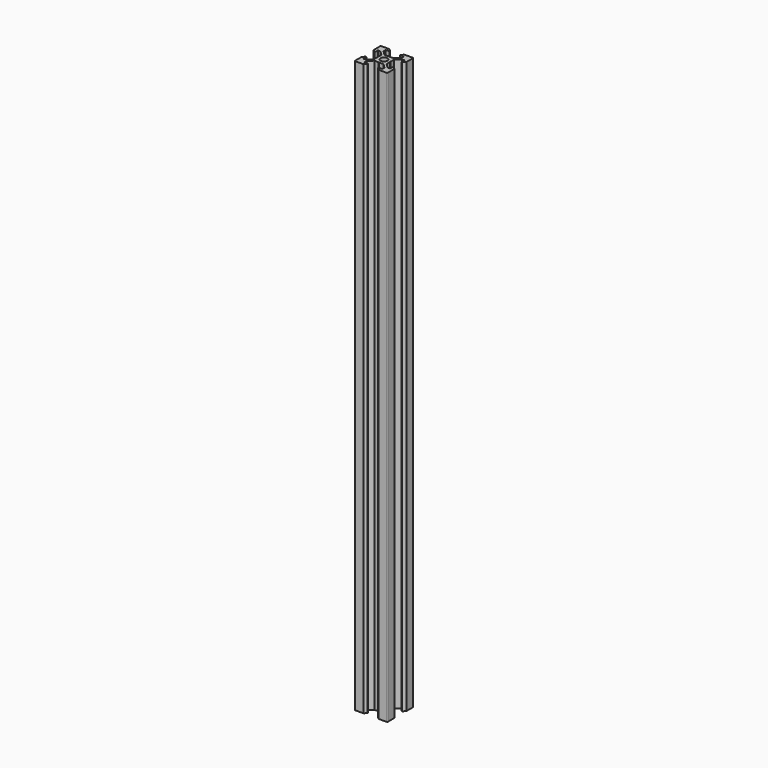
from build123d import *

# Parameters (mm, degrees)
F0_R     = 2.1
F1_DEPTH = 300
F2_DEPTH = 293
F3_DEPTH = 274
F4_DEPTH = 350


with BuildPart() as f1:
    # F0 (on Top) → F1 (new body)
    with BuildSketch(Plane.XY):
        with BuildLine():
            Line((-4.592274608, 10.0000011548), (-9.512274608, 10.0000011548))
            ThreePointArc((-9.512274608, 10.0000011548), (-9.8658279986, 9.8535545454), (-10.012274608, 9.5000011548))
            Line((-10.012274608, 9.5000011548), (-10.012274608, 4.5800011548))
            Line((-10.012274608, 4.5800011548), (-8.557274608, 3.1250011548))
            Line((-8.557274608, 3.1250011548), (-8.212274608, 3.1250011548))
            Line((-8.212274608, 3.1250011548), (-8.212274608, 5.5000011548))
            Line((-8.212274608, 5.5000011548), (-6.5729347798, 5.5000011548))
            Line((-6.5729347798, 5.5000011548), (-3.912274608, 2.8393409831))
            Line((-3.912274608, 2.8393409831), (-3.912274608, 0.2100011548))
            Line((-3.912274608, 0.2100011548), (-3.702274608, 1.1548e-06))
            Line((-3.702274608, 1.1548e-06), (-3.912274608, -0.2099988452))
            Line((-3.912274608, -0.2099988452), (-3.912274608, -2.8393386734))
            Line((-3.912274608, -2.8393386734), (-6.5729347798, -5.4999988452))
            Line((-6.5729347798, -5.4999988452), (-8.212274608, -5.4999988452))
            Line((-8.212274608, -5.4999988452), (-8.212274608, -3.1249988452))
            Line((-8.212274608, -3.1249988452), (-8.557274608, -3.1249988452))
            Line((-8.557274608, -3.1249988452), (-10.012274608, -4.5799988452))
            Line((-10.012274608, -4.5799988452), (-10.012274608, -9.4999988452))
            ThreePointArc((-10.012274608, -9.4999988452), (-9.8658279986, -9.8535522358), (-9.512274608, -9.9999988452))
            Line((-9.512274608, -9.9999988452), (-4.592274608, -9.9999988452))
            Line((-4.592274608, -9.9999988452), (-3.137274608, -8.5449988452))
            Line((-3.137274608, -8.5449988452), (-3.137274608, -8.1999988452))
            Line((-3.137274608, -8.1999988452), (-5.512274608, -8.1999988452))
            Line((-5.512274608, -8.1999988452), (-5.512274608, -6.5606590169))
            Line((-5.512274608, -6.5606590169), (-2.8516144362, -3.8999988452))
            Line((-2.8516144362, -3.8999988452), (-0.222274608, -3.8999988452))
            Line((-0.222274608, -3.8999988452), (-0.012274608, -3.6899988452))
            Line((-0.012274608, -3.6899988452), (0.197725392, -3.8999988452))
            Line((0.197725392, -3.8999988452), (2.8270652202, -3.8999988452))
            Line((2.8270652202, -3.8999988452), (5.487725392, -6.5606590169))
            Line((5.487725392, -6.5606590169), (5.487725392, -8.1999988452))
            Line((5.487725392, -8.1999988452), (3.112725392, -8.1999988452))
            Line((3.112725392, -8.1999988452), (3.112725392, -8.5449988452))
            Line((3.112725392, -8.5449988452), (4.567725392, -9.9999988452))
            Line((4.567725392, -9.9999988452), (9.487725392, -9.9999988452))
            ThreePointArc((9.487725392, -9.9999988452), (9.8412787826, -9.8535522358), (9.987725392, -9.4999988452))
            Line((9.987725392, -9.4999988452), (9.987725392, -4.5799988452))
            Line((9.987725392, -4.5799988452), (8.532725392, -3.1249988452))
            Line((8.532725392, -3.1249988452), (8.187725392, -3.1249988452))
            Line((8.187725392, -3.1249988452), (8.187725392, -5.4999988452))
            Line((8.187725392, -5.4999988452), (6.5483855638, -5.4999988452))
            Line((6.5483855638, -5.4999988452), (3.887725392, -2.8393386734))
            Line((3.887725392, -2.8393386734), (3.887725392, -0.2099988452))
            Line((3.887725392, -0.2099988452), (3.677725392, 1.1548e-06))
            Line((3.677725392, 1.1548e-06), (3.887725392, 0.2100011548))
            Line((3.887725392, 0.2100011548), (3.887725392, 2.8393409831))
            Line((3.887725392, 2.8393409831), (6.5483855638, 5.5000011548))
            Line((6.5483855638, 5.5000011548), (8.187725392, 5.5000011548))
            Line((8.187725392, 5.5000011548), (8.187725392, 3.1250011548))
            Line((8.187725392, 3.1250011548), (8.532725392, 3.1250011548))
            Line((8.532725392, 3.1250011548), (9.987725392, 4.5800011548))
            Line((9.987725392, 4.5800011548), (9.987725392, 9.5000011548))
            ThreePointArc((9.987725392, 9.5000011548), (9.8412787826, 9.8535545454), (9.487725392, 10.0000011548))
            Line((9.487725392, 10.0000011548), (4.567725392, 10.0000011548))
            Line((4.567725392, 10.0000011548), (3.112725392, 8.5450011548))
            Line((3.112725392, 8.5450011548), (3.112725392, 8.2000011548))
            Line((3.112725392, 8.2000011548), (5.487725392, 8.2000011548))
            Line((5.487725392, 8.2000011548), (5.487725392, 6.5606613266))
            Line((5.487725392, 6.5606613266), (2.8270652202, 3.9000011548))
            Line((2.8270652202, 3.9000011548), (0.197725392, 3.9000011548))
            Line((0.197725392, 3.9000011548), (-0.012274608, 3.6900011548))
            Line((-0.012274608, 3.6900011548), (-0.222274608, 3.9000011548))
            Line((-0.222274608, 3.9000011548), (-2.8516144362, 3.9000011548))
            Line((-2.8516144362, 3.9000011548), (-5.512274608, 6.5606613266))
            Line((-5.512274608, 6.5606613266), (-5.512274608, 8.2000011548))
            Line((-5.512274608, 8.2000011548), (-3.137274608, 8.2000011548))
            Line((-3.137274608, 8.2000011548), (-3.137274608, 8.5450011548))
            Line((-3.137274608, 8.5450011548), (-4.592274608, 10.0000011548))
        make_face()
        with Locations((-0.012274608, 1.1548e-06)):
            Circle(F0_R, mode=Mode.SUBTRACT)
    extrude(amount=F1_DEPTH)


with BuildPart() as f2:
    # F0 (on Top) → F2 (new body)
    with BuildSketch(Plane.XY):
        with BuildLine():
            Line((-4.592274608, 10.0000011548), (-9.512274608, 10.0000011548))
            ThreePointArc((-9.512274608, 10.0000011548), (-9.8658279986, 9.8535545454), (-10.012274608, 9.5000011548))
            Line((-10.012274608, 9.5000011548), (-10.012274608, 4.5800011548))
            Line((-10.012274608, 4.5800011548), (-8.557274608, 3.1250011548))
            Line((-8.557274608, 3.1250011548), (-8.212274608, 3.1250011548))
            Line((-8.212274608, 3.1250011548), (-8.212274608, 5.5000011548))
            Line((-8.212274608, 5.5000011548), (-6.5729347798, 5.5000011548))
            Line((-6.5729347798, 5.5000011548), (-3.912274608, 2.8393409831))
            Line((-3.912274608, 2.8393409831), (-3.912274608, 0.2100011548))
            Line((-3.912274608, 0.2100011548), (-3.702274608, 1.1548e-06))
            Line((-3.702274608, 1.1548e-06), (-3.912274608, -0.2099988452))
            Line((-3.912274608, -0.2099988452), (-3.912274608, -2.8393386734))
            Line((-3.912274608, -2.8393386734), (-6.5729347798, -5.4999988452))
            Line((-6.5729347798, -5.4999988452), (-8.212274608, -5.4999988452))
            Line((-8.212274608, -5.4999988452), (-8.212274608, -3.1249988452))
            Line((-8.212274608, -3.1249988452), (-8.557274608, -3.1249988452))
            Line((-8.557274608, -3.1249988452), (-10.012274608, -4.5799988452))
            Line((-10.012274608, -4.5799988452), (-10.012274608, -9.4999988452))
            ThreePointArc((-10.012274608, -9.4999988452), (-9.8658279986, -9.8535522358), (-9.512274608, -9.9999988452))
            Line((-9.512274608, -9.9999988452), (-4.592274608, -9.9999988452))
            Line((-4.592274608, -9.9999988452), (-3.137274608, -8.5449988452))
            Line((-3.137274608, -8.5449988452), (-3.137274608, -8.1999988452))
            Line((-3.137274608, -8.1999988452), (-5.512274608, -8.1999988452))
            Line((-5.512274608, -8.1999988452), (-5.512274608, -6.5606590169))
            Line((-5.512274608, -6.5606590169), (-2.8516144362, -3.8999988452))
            Line((-2.8516144362, -3.8999988452), (-0.222274608, -3.8999988452))
            Line((-0.222274608, -3.8999988452), (-0.012274608, -3.6899988452))
            Line((-0.012274608, -3.6899988452), (0.197725392, -3.8999988452))
            Line((0.197725392, -3.8999988452), (2.8270652202, -3.8999988452))
            Line((2.8270652202, -3.8999988452), (5.487725392, -6.5606590169))
            Line((5.487725392, -6.5606590169), (5.487725392, -8.1999988452))
            Line((5.487725392, -8.1999988452), (3.112725392, -8.1999988452))
            Line((3.112725392, -8.1999988452), (3.112725392, -8.5449988452))
            Line((3.112725392, -8.5449988452), (4.567725392, -9.9999988452))
            Line((4.567725392, -9.9999988452), (9.487725392, -9.9999988452))
            ThreePointArc((9.487725392, -9.9999988452), (9.8412787826, -9.8535522358), (9.987725392, -9.4999988452))
            Line((9.987725392, -9.4999988452), (9.987725392, -4.5799988452))
            Line((9.987725392, -4.5799988452), (8.532725392, -3.1249988452))
            Line((8.532725392, -3.1249988452), (8.187725392, -3.1249988452))
            Line((8.187725392, -3.1249988452), (8.187725392, -5.4999988452))
            Line((8.187725392, -5.4999988452), (6.5483855638, -5.4999988452))
            Line((6.5483855638, -5.4999988452), (3.887725392, -2.8393386734))
            Line((3.887725392, -2.8393386734), (3.887725392, -0.2099988452))
            Line((3.887725392, -0.2099988452), (3.677725392, 1.1548e-06))
            Line((3.677725392, 1.1548e-06), (3.887725392, 0.2100011548))
            Line((3.887725392, 0.2100011548), (3.887725392, 2.8393409831))
            Line((3.887725392, 2.8393409831), (6.5483855638, 5.5000011548))
            Line((6.5483855638, 5.5000011548), (8.187725392, 5.5000011548))
            Line((8.187725392, 5.5000011548), (8.187725392, 3.1250011548))
            Line((8.187725392, 3.1250011548), (8.532725392, 3.1250011548))
            Line((8.532725392, 3.1250011548), (9.987725392, 4.5800011548))
            Line((9.987725392, 4.5800011548), (9.987725392, 9.5000011548))
            ThreePointArc((9.987725392, 9.5000011548), (9.8412787826, 9.8535545454), (9.487725392, 10.0000011548))
            Line((9.487725392, 10.0000011548), (4.567725392, 10.0000011548))
            Line((4.567725392, 10.0000011548), (3.112725392, 8.5450011548))
            Line((3.112725392, 8.5450011548), (3.112725392, 8.2000011548))
            Line((3.112725392, 8.2000011548), (5.487725392, 8.2000011548))
            Line((5.487725392, 8.2000011548), (5.487725392, 6.5606613266))
            Line((5.487725392, 6.5606613266), (2.8270652202, 3.9000011548))
            Line((2.8270652202, 3.9000011548), (0.197725392, 3.9000011548))
            Line((0.197725392, 3.9000011548), (-0.012274608, 3.6900011548))
            Line((-0.012274608, 3.6900011548), (-0.222274608, 3.9000011548))
            Line((-0.222274608, 3.9000011548), (-2.8516144362, 3.9000011548))
            Line((-2.8516144362, 3.9000011548), (-5.512274608, 6.5606613266))
            Line((-5.512274608, 6.5606613266), (-5.512274608, 8.2000011548))
            Line((-5.512274608, 8.2000011548), (-3.137274608, 8.2000011548))
            Line((-3.137274608, 8.2000011548), (-3.137274608, 8.5450011548))
            Line((-3.137274608, 8.5450011548), (-4.592274608, 10.0000011548))
        make_face()
        with Locations((-0.012274608, 1.1548e-06)):
            Circle(F0_R, mode=Mode.SUBTRACT)
    extrude(amount=F2_DEPTH)


with BuildPart() as f3:
    # F0 (on Top) → F3 (new body)
    with BuildSketch(Plane.XY):
        with BuildLine():
            Line((-4.592274608, 10.0000011548), (-9.512274608, 10.0000011548))
            ThreePointArc((-9.512274608, 10.0000011548), (-9.8658279986, 9.8535545454), (-10.012274608, 9.5000011548))
            Line((-10.012274608, 9.5000011548), (-10.012274608, 4.5800011548))
            Line((-10.012274608, 4.5800011548), (-8.557274608, 3.1250011548))
            Line((-8.557274608, 3.1250011548), (-8.212274608, 3.1250011548))
            Line((-8.212274608, 3.1250011548), (-8.212274608, 5.5000011548))
            Line((-8.212274608, 5.5000011548), (-6.5729347798, 5.5000011548))
            Line((-6.5729347798, 5.5000011548), (-3.912274608, 2.8393409831))
            Line((-3.912274608, 2.8393409831), (-3.912274608, 0.2100011548))
            Line((-3.912274608, 0.2100011548), (-3.702274608, 1.1548e-06))
            Line((-3.702274608, 1.1548e-06), (-3.912274608, -0.2099988452))
            Line((-3.912274608, -0.2099988452), (-3.912274608, -2.8393386734))
            Line((-3.912274608, -2.8393386734), (-6.5729347798, -5.4999988452))
            Line((-6.5729347798, -5.4999988452), (-8.212274608, -5.4999988452))
            Line((-8.212274608, -5.4999988452), (-8.212274608, -3.1249988452))
            Line((-8.212274608, -3.1249988452), (-8.557274608, -3.1249988452))
            Line((-8.557274608, -3.1249988452), (-10.012274608, -4.5799988452))
            Line((-10.012274608, -4.5799988452), (-10.012274608, -9.4999988452))
            ThreePointArc((-10.012274608, -9.4999988452), (-9.8658279986, -9.8535522358), (-9.512274608, -9.9999988452))
            Line((-9.512274608, -9.9999988452), (-4.592274608, -9.9999988452))
            Line((-4.592274608, -9.9999988452), (-3.137274608, -8.5449988452))
            Line((-3.137274608, -8.5449988452), (-3.137274608, -8.1999988452))
            Line((-3.137274608, -8.1999988452), (-5.512274608, -8.1999988452))
            Line((-5.512274608, -8.1999988452), (-5.512274608, -6.5606590169))
            Line((-5.512274608, -6.5606590169), (-2.8516144362, -3.8999988452))
            Line((-2.8516144362, -3.8999988452), (-0.222274608, -3.8999988452))
            Line((-0.222274608, -3.8999988452), (-0.012274608, -3.6899988452))
            Line((-0.012274608, -3.6899988452), (0.197725392, -3.8999988452))
            Line((0.197725392, -3.8999988452), (2.8270652202, -3.8999988452))
            Line((2.8270652202, -3.8999988452), (5.487725392, -6.5606590169))
            Line((5.487725392, -6.5606590169), (5.487725392, -8.1999988452))
            Line((5.487725392, -8.1999988452), (3.112725392, -8.1999988452))
            Line((3.112725392, -8.1999988452), (3.112725392, -8.5449988452))
            Line((3.112725392, -8.5449988452), (4.567725392, -9.9999988452))
            Line((4.567725392, -9.9999988452), (9.487725392, -9.9999988452))
            ThreePointArc((9.487725392, -9.9999988452), (9.8412787826, -9.8535522358), (9.987725392, -9.4999988452))
            Line((9.987725392, -9.4999988452), (9.987725392, -4.5799988452))
            Line((9.987725392, -4.5799988452), (8.532725392, -3.1249988452))
            Line((8.532725392, -3.1249988452), (8.187725392, -3.1249988452))
            Line((8.187725392, -3.1249988452), (8.187725392, -5.4999988452))
            Line((8.187725392, -5.4999988452), (6.5483855638, -5.4999988452))
            Line((6.5483855638, -5.4999988452), (3.887725392, -2.8393386734))
            Line((3.887725392, -2.8393386734), (3.887725392, -0.2099988452))
            Line((3.887725392, -0.2099988452), (3.677725392, 1.1548e-06))
            Line((3.677725392, 1.1548e-06), (3.887725392, 0.2100011548))
            Line((3.887725392, 0.2100011548), (3.887725392, 2.8393409831))
            Line((3.887725392, 2.8393409831), (6.5483855638, 5.5000011548))
            Line((6.5483855638, 5.5000011548), (8.187725392, 5.5000011548))
            Line((8.187725392, 5.5000011548), (8.187725392, 3.1250011548))
            Line((8.187725392, 3.1250011548), (8.532725392, 3.1250011548))
            Line((8.532725392, 3.1250011548), (9.987725392, 4.5800011548))
            Line((9.987725392, 4.5800011548), (9.987725392, 9.5000011548))
            ThreePointArc((9.987725392, 9.5000011548), (9.8412787826, 9.8535545454), (9.487725392, 10.0000011548))
            Line((9.487725392, 10.0000011548), (4.567725392, 10.0000011548))
            Line((4.567725392, 10.0000011548), (3.112725392, 8.5450011548))
            Line((3.112725392, 8.5450011548), (3.112725392, 8.2000011548))
            Line((3.112725392, 8.2000011548), (5.487725392, 8.2000011548))
            Line((5.487725392, 8.2000011548), (5.487725392, 6.5606613266))
            Line((5.487725392, 6.5606613266), (2.8270652202, 3.9000011548))
            Line((2.8270652202, 3.9000011548), (0.197725392, 3.9000011548))
            Line((0.197725392, 3.9000011548), (-0.012274608, 3.6900011548))
            Line((-0.012274608, 3.6900011548), (-0.222274608, 3.9000011548))
            Line((-0.222274608, 3.9000011548), (-2.8516144362, 3.9000011548))
            Line((-2.8516144362, 3.9000011548), (-5.512274608, 6.5606613266))
            Line((-5.512274608, 6.5606613266), (-5.512274608, 8.2000011548))
            Line((-5.512274608, 8.2000011548), (-3.137274608, 8.2000011548))
            Line((-3.137274608, 8.2000011548), (-3.137274608, 8.5450011548))
            Line((-3.137274608, 8.5450011548), (-4.592274608, 10.0000011548))
        make_face()
        with Locations((-0.012274608, 1.1548e-06)):
            Circle(F0_R, mode=Mode.SUBTRACT)
    extrude(amount=F3_DEPTH)


with BuildPart() as f4:
    # F0 (on Top) → F4 (new body)
    with BuildSketch(Plane.XY):
        with BuildLine():
            Line((-4.592274608, 10.0000011548), (-9.512274608, 10.0000011548))
            ThreePointArc((-9.512274608, 10.0000011548), (-9.8658279986, 9.8535545454), (-10.012274608, 9.5000011548))
            Line((-10.012274608, 9.5000011548), (-10.012274608, 4.5800011548))
            Line((-10.012274608, 4.5800011548), (-8.557274608, 3.1250011548))
            Line((-8.557274608, 3.1250011548), (-8.212274608, 3.1250011548))
            Line((-8.212274608, 3.1250011548), (-8.212274608, 5.5000011548))
            Line((-8.212274608, 5.5000011548), (-6.5729347798, 5.5000011548))
            Line((-6.5729347798, 5.5000011548), (-3.912274608, 2.8393409831))
            Line((-3.912274608, 2.8393409831), (-3.912274608, 0.2100011548))
            Line((-3.912274608, 0.2100011548), (-3.702274608, 1.1548e-06))
            Line((-3.702274608, 1.1548e-06), (-3.912274608, -0.2099988452))
            Line((-3.912274608, -0.2099988452), (-3.912274608, -2.8393386734))
            Line((-3.912274608, -2.8393386734), (-6.5729347798, -5.4999988452))
            Line((-6.5729347798, -5.4999988452), (-8.212274608, -5.4999988452))
            Line((-8.212274608, -5.4999988452), (-8.212274608, -3.1249988452))
            Line((-8.212274608, -3.1249988452), (-8.557274608, -3.1249988452))
            Line((-8.557274608, -3.1249988452), (-10.012274608, -4.5799988452))
            Line((-10.012274608, -4.5799988452), (-10.012274608, -9.4999988452))
            ThreePointArc((-10.012274608, -9.4999988452), (-9.8658279986, -9.8535522358), (-9.512274608, -9.9999988452))
            Line((-9.512274608, -9.9999988452), (-4.592274608, -9.9999988452))
            Line((-4.592274608, -9.9999988452), (-3.137274608, -8.5449988452))
            Line((-3.137274608, -8.5449988452), (-3.137274608, -8.1999988452))
            Line((-3.137274608, -8.1999988452), (-5.512274608, -8.1999988452))
            Line((-5.512274608, -8.1999988452), (-5.512274608, -6.5606590169))
            Line((-5.512274608, -6.5606590169), (-2.8516144362, -3.8999988452))
            Line((-2.8516144362, -3.8999988452), (-0.222274608, -3.8999988452))
            Line((-0.222274608, -3.8999988452), (-0.012274608, -3.6899988452))
            Line((-0.012274608, -3.6899988452), (0.197725392, -3.8999988452))
            Line((0.197725392, -3.8999988452), (2.8270652202, -3.8999988452))
            Line((2.8270652202, -3.8999988452), (5.487725392, -6.5606590169))
            Line((5.487725392, -6.5606590169), (5.487725392, -8.1999988452))
            Line((5.487725392, -8.1999988452), (3.112725392, -8.1999988452))
            Line((3.112725392, -8.1999988452), (3.112725392, -8.5449988452))
            Line((3.112725392, -8.5449988452), (4.567725392, -9.9999988452))
            Line((4.567725392, -9.9999988452), (9.487725392, -9.9999988452))
            ThreePointArc((9.487725392, -9.9999988452), (9.8412787826, -9.8535522358), (9.987725392, -9.4999988452))
            Line((9.987725392, -9.4999988452), (9.987725392, -4.5799988452))
            Line((9.987725392, -4.5799988452), (8.532725392, -3.1249988452))
            Line((8.532725392, -3.1249988452), (8.187725392, -3.1249988452))
            Line((8.187725392, -3.1249988452), (8.187725392, -5.4999988452))
            Line((8.187725392, -5.4999988452), (6.5483855638, -5.4999988452))
            Line((6.5483855638, -5.4999988452), (3.887725392, -2.8393386734))
            Line((3.887725392, -2.8393386734), (3.887725392, -0.2099988452))
            Line((3.887725392, -0.2099988452), (3.677725392, 1.1548e-06))
            Line((3.677725392, 1.1548e-06), (3.887725392, 0.2100011548))
            Line((3.887725392, 0.2100011548), (3.887725392, 2.8393409831))
            Line((3.887725392, 2.8393409831), (6.5483855638, 5.5000011548))
            Line((6.5483855638, 5.5000011548), (8.187725392, 5.5000011548))
            Line((8.187725392, 5.5000011548), (8.187725392, 3.1250011548))
            Line((8.187725392, 3.1250011548), (8.532725392, 3.1250011548))
            Line((8.532725392, 3.1250011548), (9.987725392, 4.5800011548))
            Line((9.987725392, 4.5800011548), (9.987725392, 9.5000011548))
            ThreePointArc((9.987725392, 9.5000011548), (9.8412787826, 9.8535545454), (9.487725392, 10.0000011548))
            Line((9.487725392, 10.0000011548), (4.567725392, 10.0000011548))
            Line((4.567725392, 10.0000011548), (3.112725392, 8.5450011548))
            Line((3.112725392, 8.5450011548), (3.112725392, 8.2000011548))
            Line((3.112725392, 8.2000011548), (5.487725392, 8.2000011548))
            Line((5.487725392, 8.2000011548), (5.487725392, 6.5606613266))
            Line((5.487725392, 6.5606613266), (2.8270652202, 3.9000011548))
            Line((2.8270652202, 3.9000011548), (0.197725392, 3.9000011548))
            Line((0.197725392, 3.9000011548), (-0.012274608, 3.6900011548))
            Line((-0.012274608, 3.6900011548), (-0.222274608, 3.9000011548))
            Line((-0.222274608, 3.9000011548), (-2.8516144362, 3.9000011548))
            Line((-2.8516144362, 3.9000011548), (-5.512274608, 6.5606613266))
            Line((-5.512274608, 6.5606613266), (-5.512274608, 8.2000011548))
            Line((-5.512274608, 8.2000011548), (-3.137274608, 8.2000011548))
            Line((-3.137274608, 8.2000011548), (-3.137274608, 8.5450011548))
            Line((-3.137274608, 8.5450011548), (-4.592274608, 10.0000011548))
        make_face()
        with Locations((-0.012274608, 1.1548e-06)):
            Circle(F0_R, mode=Mode.SUBTRACT)
    extrude(amount=F4_DEPTH)


solid = Compound([f1.part, f2.part, f3.part, f4.part])
